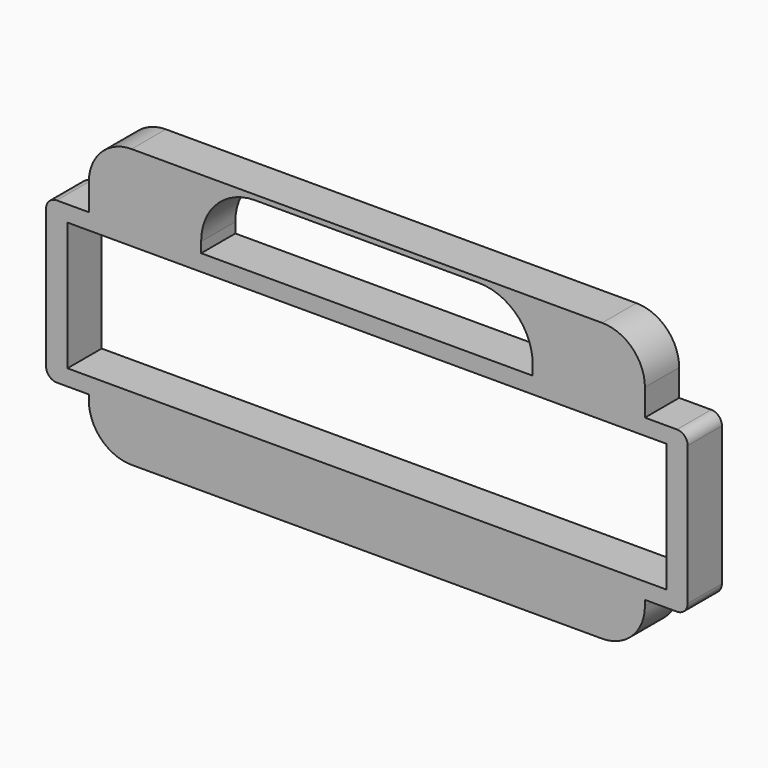
from build123d import *

# Parameters (mm, degrees)
F0_W     = 330.2
F0_H     = 41.275
F0_H_2   = 9.525
F0_H_3   = 28.575
F1_DEPTH = 25.4
F2_R     = 25.4
F3_R     = 6.35


with BuildPart() as f1:
    # F0 (on Front) → F1 (new body)
    with BuildSketch(Plane.XZ):
        with Locations((0, 68.2625)):
            Rectangle(F0_W, F0_H)
        Polygon((66.4316704035, 85.9683295965), (98.425, 85.9683295965), (98.425, 53.975), (98.425, 47.8683295965), (-98.425, 47.8683295965), (-98.425, 53.975), (-98.425, 85.9683295965), (-66.4316704035, 85.9683295965), align=None, mode=Mode.SUBTRACT)
        with BuildLine():
            ThreePointArc((-98.425, 53.975), (-89.0543707139, 76.5977003104), (-66.4316704035, 85.9683295965))
            Line((-66.4316704035, 85.9683295965), (-98.425, 85.9683295965))
            Line((-98.425, 85.9683295965), (-98.425, 53.975))
        make_face()
        with BuildLine():
            Line((98.425, 53.975), (98.425, 85.9683295965))
            Line((98.425, 85.9683295965), (66.4316704035, 85.9683295965))
            ThreePointArc((66.4316704035, 85.9683295965), (89.0543707139, 76.5977003104), (98.425, 53.975))
        make_face()
        Polygon((-190.5, -47.625), (-165.1, -47.625), (-165.1, -38.1), (-177.8, -38.1), (-177.8, 38.1), (-165.1, 38.1), (-165.1, 47.625), (-190.5, 47.625), align=None)
        with Locations((0, 42.8625)):
            Rectangle(F0_W, F0_H_2)
        Polygon((165.1, -47.625), (190.5, -47.625), (190.5, 47.625), (165.1, 47.625), (165.1, 38.1), (177.8, 38.1), (177.8, -38.1), (165.1, -38.1), align=None)
        with Locations((0, -42.8625)):
            Rectangle(F0_W, F0_H_2)
        with Locations((0, -61.9125)):
            Rectangle(F0_W, F0_H_3)
    extrude(amount=F1_DEPTH)

    # F2
    f2_edges = [f1.edges().sort_by_distance(p)[0] for p in [
        (-165.1, -12.7, 88.9),
        (165.1, -12.7, 88.9),
        (-165.1, -12.7, -76.2),
        (165.1, -12.7, -76.2),
    ]]
    fillet(f2_edges, radius=F2_R)

    # F3
    f3_edges = [f1.edges().sort_by_distance(p)[0] for p in [
        (-190.5, -12.7, 47.625),
        (-190.5, -12.7, -47.625),
        (190.5, -12.7, -47.625),
        (190.5, -12.7, 47.625),
    ]]
    fillet(f3_edges, radius=F3_R)


solid = f1.part
